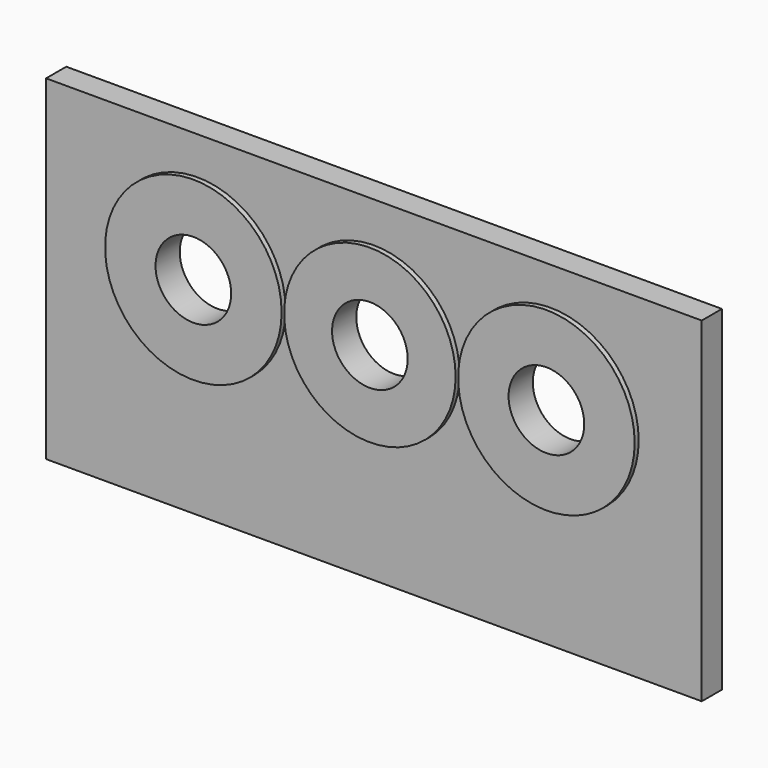
from build123d import *

# Parameters (mm, degrees)
F0_W     = 130
F0_H     = 66.465674
F0_R     = 17.5
F0_R_2   = 7.5
F0_R_3   = 17
F1_DEPTH = 5
F2_DEPTH = 6
F3_DEPTH = 6
F4_DEPTH = 6


with BuildPart() as f1:
    # F0 (on Front) → F1 (new body)
    with BuildSketch(Plane.XZ):
        Rectangle(F0_W, F0_H)
        with Locations((-35, 8.232837)):
            Circle(F0_R, mode=Mode.SUBTRACT)
        with BuildLine():
            ThreePointArc((-17.5, 8.232837), (0, 25.732837), (17.5, 8.232837))
            ThreePointArc((17.5, 8.232837), (0, -9.267163), (-17.5, 8.232837))
        make_face(mode=Mode.SUBTRACT)
        with BuildLine():
            ThreePointArc((17.5, 8.232837), (35, 25.732837), (52.5, 8.232837))
            ThreePointArc((52.5, 8.232837), (35, -9.267163), (17.5, 8.232837))
        make_face(mode=Mode.SUBTRACT)
        with Locations((-35, 8.232837)):
            Circle(F0_R)
        with Locations((-35, 8.232837)):
            Circle(F0_R_2, mode=Mode.SUBTRACT)
        with BuildLine():
            ThreePointArc((-17.5, 8.232837), (0, -9.267163), (17.5, 8.232837))
            ThreePointArc((17.5, 8.232837), (0, 25.732837), (-17.5, 8.232837))
        make_face()
        with Locations((0, 8.232837)):
            Circle(F0_R_3, mode=Mode.SUBTRACT)
        with BuildLine():
            ThreePointArc((17.5, 8.232837), (35, -9.267163), (52.5, 8.232837))
            ThreePointArc((52.5, 8.232837), (35, 25.732837), (17.5, 8.232837))
        make_face()
        with Locations((35, 8.232837)):
            Circle(F0_R_2, mode=Mode.SUBTRACT)
        with Locations((0, 8.232837)):
            Circle(F0_R_3)
        with Locations((0, 8.232837)):
            Circle(F0_R_2, mode=Mode.SUBTRACT)
    extrude(amount=F1_DEPTH)

    # F0 (on Front) → F2 (join)
    with BuildSketch(Plane.XZ):
        with BuildLine():
            ThreePointArc((17.5, 8.232837), (35, -9.267163), (52.5, 8.232837))
            ThreePointArc((52.5, 8.232837), (35, 25.732837), (17.5, 8.232837))
        make_face()
        with Locations((35, 8.232837)):
            Circle(F0_R_2, mode=Mode.SUBTRACT)
    extrude(amount=F2_DEPTH)

    # F0 (on Front) → F3 (join)
    with BuildSketch(Plane.XZ):
        with Locations((-35, 8.232837)):
            Circle(F0_R)
        with Locations((-35, 8.232837)):
            Circle(F0_R_2, mode=Mode.SUBTRACT)
    extrude(amount=F3_DEPTH)

    # F0 (on Front) → F4 (join)
    with BuildSketch(Plane.XZ):
        with Locations((0, 8.232837)):
            Circle(F0_R_3)
        with Locations((0, 8.232837)):
            Circle(F0_R_2, mode=Mode.SUBTRACT)
    extrude(amount=F4_DEPTH)


solid = f1.part
